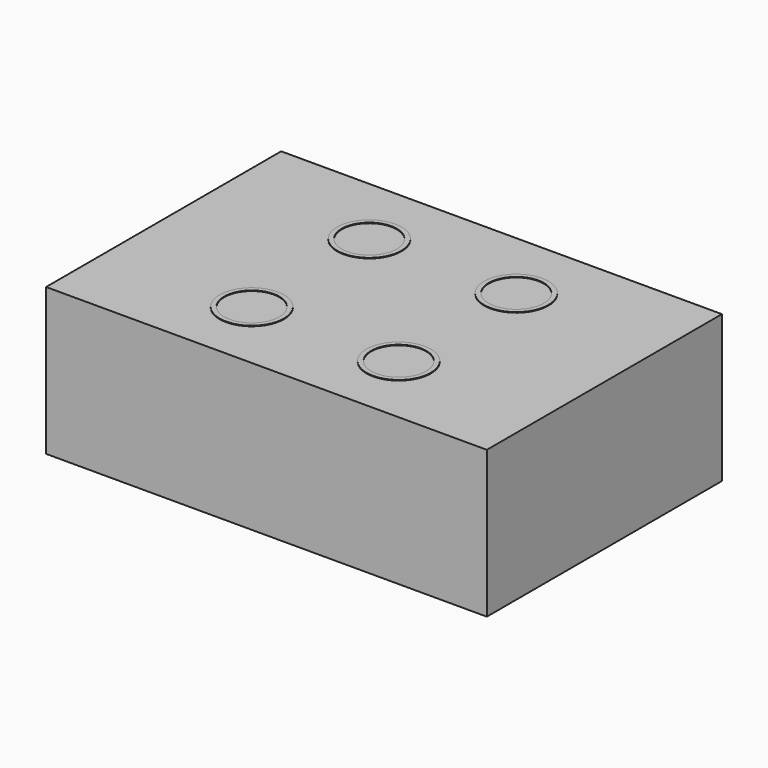
from build123d import *

# Parameters (mm, degrees)
F0_W     = 76.2
F0_H     = 50.8
F1_DEPTH = 25.4
F2_R     = 5.55625
F3_DEPTH = 0.1
F4_R     = 4.7625
F5_DEPTH = 0.1


with BuildPart() as f1:
    # F0 (on Top) → F1 (new body)
    with BuildSketch(Plane.XY):
        with Locations((-94.978769, 25.4)):
            Rectangle(F0_W, F0_H)
    extrude(amount=-F1_DEPTH)

    # F2 (on face) → F3 (join)
    with BuildSketch(Plane.XY):
        with Locations((-107.678769, 38.1)):
            Circle(F2_R)
        with Locations((-82.278769, 38.1)):
            Circle(F2_R)
        with Locations((-107.678769, 12.7)):
            Circle(F2_R)
        with Locations((-82.278769, 12.7)):
            Circle(F2_R)
    extrude(amount=F3_DEPTH)

    # F4 (on face) → F5 (cut)
    with BuildSketch(Plane.XY.offset(0.1)):
        with Locations((-107.678769, 38.091734)):
            Circle(F4_R)
        with Locations((-82.278769, 38.1)):
            Circle(F4_R)
        with Locations((-107.678769, 12.7)):
            Circle(F4_R)
        with Locations((-82.278769, 12.7)):
            Circle(F4_R)
    extrude(amount=-F5_DEPTH, mode=Mode.SUBTRACT)


solid = f1.part
